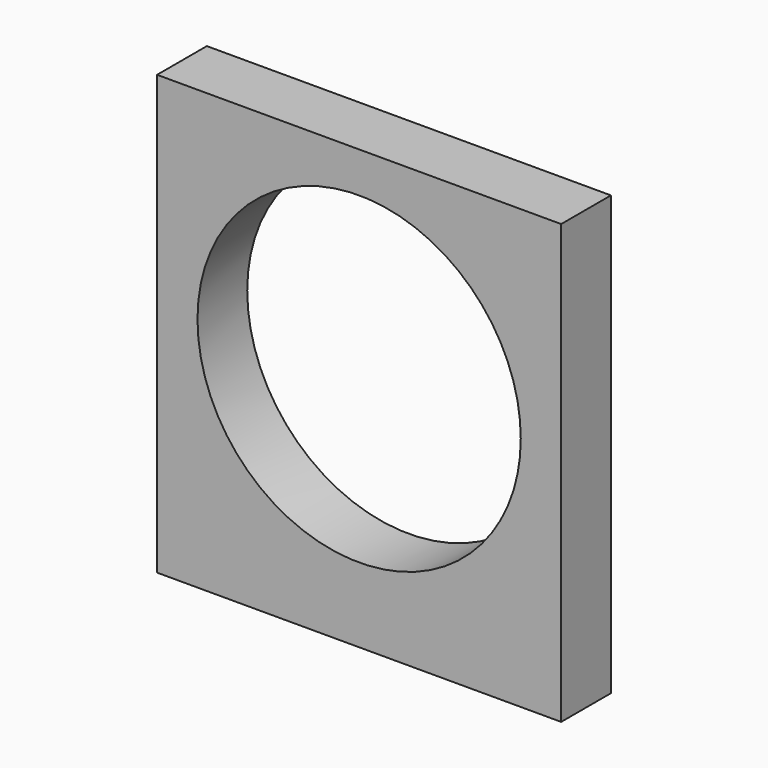
from build123d import *

# Parameters (mm, degrees)
F0_W     = 65
F0_H     = 70.5
F0_R     = 26
F1_DEPTH = 5
F3_D     = 4
F3_DEPTH = 15
F3_TIP   = 1.2017212381


with BuildPart() as f1:
    # F0 (on Front) → F1 (new body, symmetric)
    with BuildSketch(Plane.XZ):
        with Locations((0, -2.75)):
            Rectangle(F0_W, F0_H)
        Circle(F0_R, mode=Mode.SUBTRACT)
    extrude(amount=F1_DEPTH, both=True)

    # F3
    with Locations(Plane(origin=(0, 0, -38), x_dir=(1, 0, 0), z_dir=(0, 0, -1))):
        with Locations((-22, 0), (22, 0)):
            Hole(F3_D / 2, depth=F3_DEPTH)
            with Locations((0, 0, -(F3_DEPTH + F3_TIP / 2))):  # 118° drill point
                Cone(0, F3_D / 2, F3_TIP, mode=Mode.SUBTRACT)


solid = f1.part
